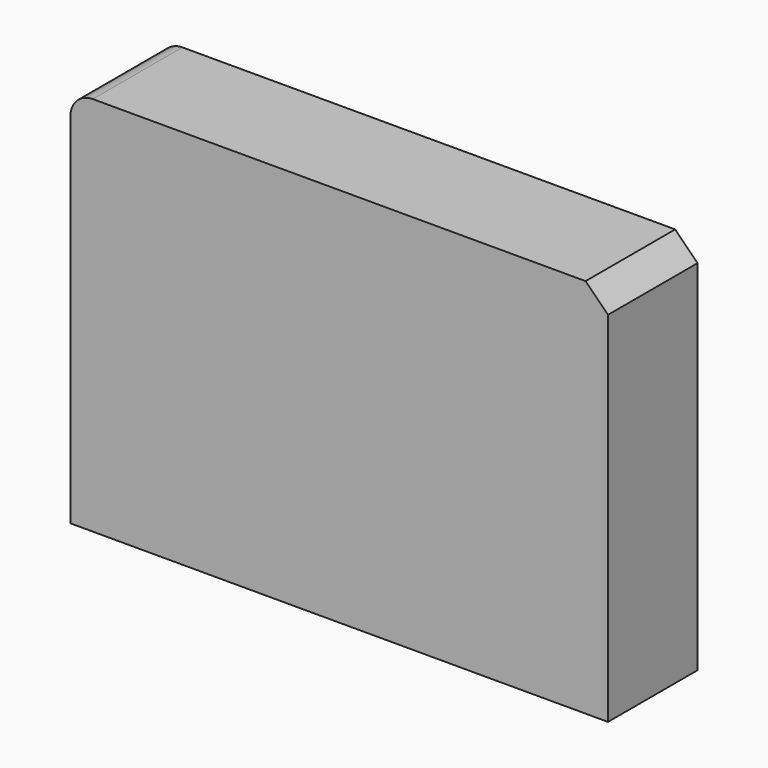
from build123d import *

# Parameters (mm, degrees)
F0_W     = 120
F0_H     = 85
F1_DEPTH = 12.5
F2_R     = 5
F3_SIZE  = 5


with BuildPart() as f1:
    # F0 (on Front) → F1 (new body, symmetric)
    with BuildSketch(Plane.XZ):
        Rectangle(F0_W, F0_H)
        Rectangle(F0_W, F0_H)
    extrude(amount=F1_DEPTH, both=True)

    # F2
    f2_edges = [f1.edges().sort_by_distance(p)[0] for p in [
        (-60, 0, 42.5),
    ]]
    fillet(f2_edges, radius=F2_R)

    # F3
    f3_edges = [f1.edges().sort_by_distance(p)[0] for p in [
        (60, 0, 42.5),
    ]]
    chamfer(f3_edges, length=F3_SIZE)


solid = f1.part
